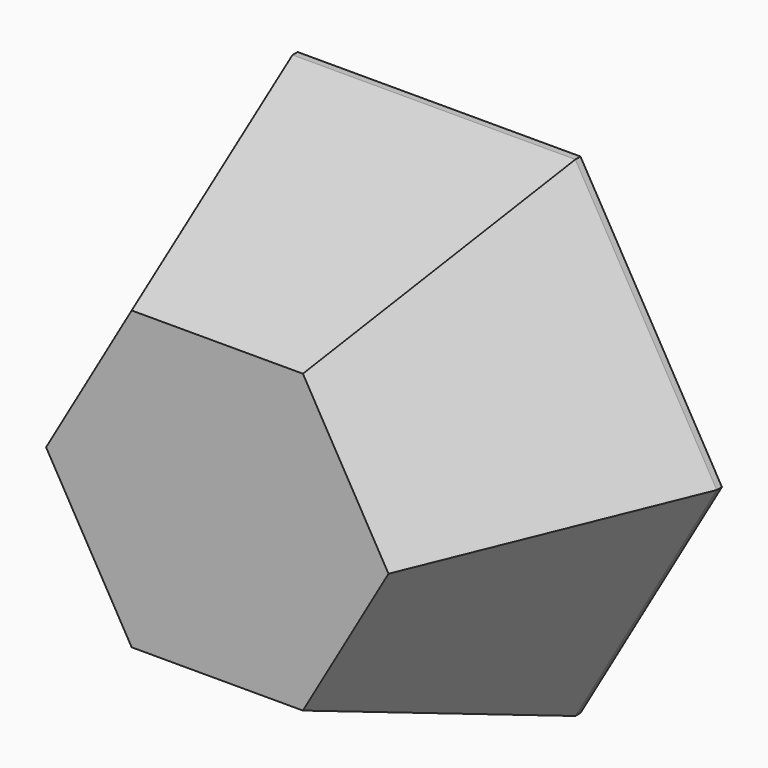
from build123d import *

# Parameters (mm, degrees)
F1_DEPTH = 1
F4_DEPTH = 1


with BuildPart() as f1:
    # F0 (on Front) → F1 (new body)
    with BuildSketch(Plane.XZ):
        with BuildLine():
            ThreePointArc((32.9089649593, -19.0000006659), (36.7051812995, -9.8351240853), (38, 0))
            ThreePointArc((38, 0), (36.7051814771, 9.8351234225), (32.9089656454, 18.9999994776))
            ThreePointArc((32.9089656454, 18.9999994776), (19.0000002592, 32.9089651942), (-4.7e-09, 38))
            ThreePointArc((-4.7e-09, 38), (-19.0000001839, 32.9089652376), (-32.9089655538, 18.9999996362))
            ThreePointArc((-32.9089655538, 18.9999996362), (-38, -7.627e-07), (-32.9089647912, -19.0000009572))
            ThreePointArc((-32.9089647912, -19.0000009572), (-18.9999995214, -32.9089656201), (0, -38))
            ThreePointArc((0, -38), (18.999999667, -32.908965536), (32.9089649593, -19.0000006659))
        make_face()
        with BuildLine():
            ThreePointArc((32.9089656454, 18.9999994776), (36.7051814771, 9.8351234225), (38, 0))
            ThreePointArc((38, 0), (36.7051812995, -9.8351240853), (32.9089649593, -19.0000006659))
            Line((32.9089649593, -19.0000006659), (43.8786204584, 0))
            Line((43.8786204584, 0), (32.9089656454, 18.9999994776))
        make_face()
        with BuildLine():
            ThreePointArc((-4.7e-09, 38), (19.0000002592, 32.9089651942), (32.9089656454, 18.9999994776))
            Line((32.9089656454, 18.9999994776), (21.9393102292, 38))
            Line((21.9393102292, 38), (-4.7e-09, 38))
        make_face()
        with BuildLine():
            Line((21.9393102292, -38), (32.9089649593, -19.0000006659))
            ThreePointArc((32.9089649593, -19.0000006659), (18.999999667, -32.908965536), (0, -38))
            Line((0, -38), (21.9393102292, -38))
        make_face()
        with BuildLine():
            ThreePointArc((-32.9089655538, 18.9999996362), (-19.0000001839, 32.9089652376), (-4.7e-09, 38))
            Line((-4.7e-09, 38), (-21.9393102292, 38))
            Line((-21.9393102292, 38), (-32.9089655538, 18.9999996362))
        make_face()
        with BuildLine():
            Line((-21.9393102292, -38), (0, -38))
            ThreePointArc((0, -38), (-18.9999995214, -32.9089656201), (-32.9089647912, -19.0000009572))
            Line((-32.9089647912, -19.0000009572), (-21.9393102292, -38))
        make_face()
        with BuildLine():
            ThreePointArc((-32.9089647912, -19.0000009572), (-38, -7.627e-07), (-32.9089655538, 18.9999996362))
            Line((-32.9089655538, 18.9999996362), (-43.8786204584, 0))
            Line((-43.8786204584, 0), (-32.9089647912, -19.0000009572))
        make_face()
    extrude(amount=F1_DEPTH)


with BuildPart() as f4:
    # F3 (on offset) → F4 (new body)
    with BuildSketch(Plane.XZ.offset(42)):
        Polygon((13.2790561914, 23), (-13.2790561914, 23), (-26.5581123827, 0), (-13.2790561914, -23), (13.2790561914, -23), (26.5581123827, 0), align=None)
    extrude(amount=F4_DEPTH)


with BuildPart() as f7:
    # F5 (on face) → F7 section 0
    with BuildSketch(Plane.XZ.offset(1)):
        Polygon((21.9393102292, 38), (-21.9393102292, 38), (-43.8786204584, 0), (-21.9393102292, -38), (21.9393102292, -38), (43.8786204584, 0), align=None)
    # F6 (on face) → F7 section 1
    with BuildSketch(Plane.XZ.offset(43)):
        Polygon((13.2790561914, 23), (-13.2790561914, 23), (-26.5581123827, 0), (-13.2790561914, -23), (13.2790561914, -23), (26.5581123827, 0), align=None)
    loft()


solid = Compound([f1.part, f4.part, f7.part])
